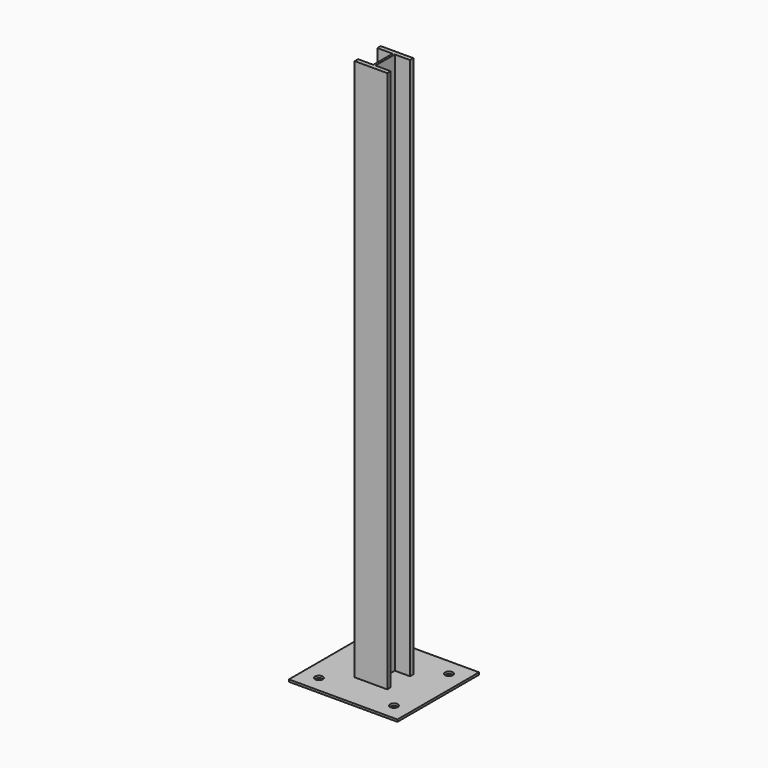
from build123d import *

# Parameters (mm, degrees)
F1_DEPTH = 2500
F2_W     = 500
F2_H     = 470.368494
F3_DEPTH = 10
F5_D     = 36


with BuildPart() as f1:
    # F0 (on Top) → F1 (new body)
    with BuildSketch(Plane.XY):
        Polygon((116.389801, -247.016438), (116.389801, -266.389801), (191.389801, -266.389801), (266.389801, -266.389801), (266.389801, -247.016438), (196.389801, -247.016438), (196.389801, -135.763163), (266.389801, -135.763163), (266.389801, -116.389801), (191.389801, -116.389801), (116.389801, -116.389801), (116.389801, -135.763163), (186.389801, -135.763163), (186.389801, -247.016438), align=None)
    extrude(amount=F1_DEPTH)


with BuildPart() as f3:
    # F2 (on face) → F3 (new body)
    with BuildSketch(Plane.XY):
        with Locations((191.313848, -191.424057)):
            Rectangle(F2_W, F2_H)
        Polygon((116.389801, -266.389801), (116.389801, -247.016438), (186.389801, -247.016438), (186.389801, -135.763163), (116.389801, -135.763163), (116.389801, -116.389801), (191.389801, -116.389801), (266.389801, -116.389801), (266.389801, -135.763163), (196.389801, -135.763163), (196.389801, -247.016438), (266.389801, -247.016438), (266.389801, -266.389801), (191.389801, -266.389801), align=None, mode=Mode.SUBTRACT)
    extrude(amount=-F3_DEPTH)

    # F5 (through all)
    with Locations(Plane.XY):
        with Locations((18.570913, -32.513674), (18.570913, -350.334439), (364.056783, -350.334439), (364.056783, -32.513674)):
            Hole(F5_D / 2)


solid = Compound([f1.part, f3.part])
